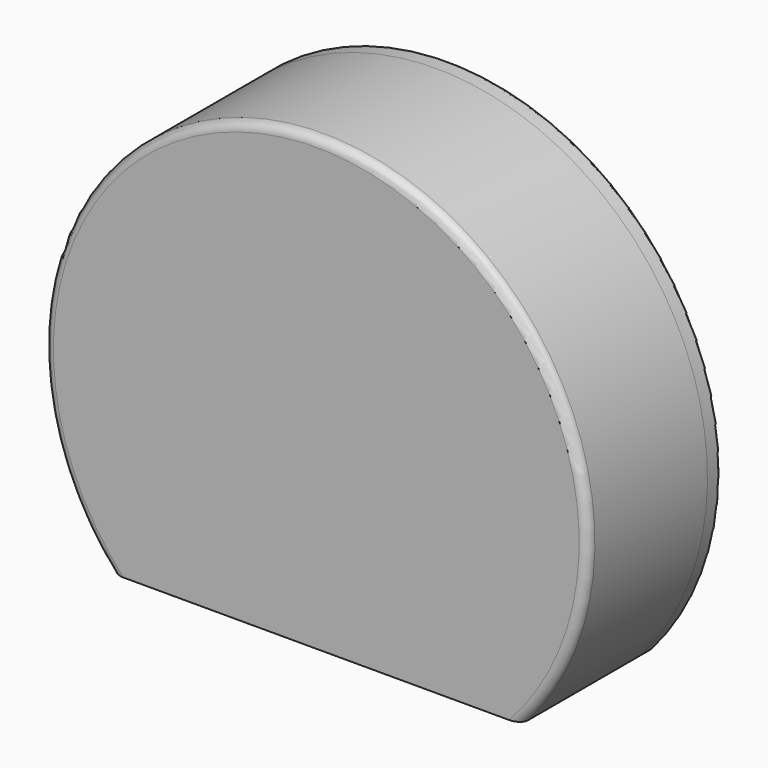
from build123d import *

# Parameters (mm, degrees)
F0_R           = 30.9
F1_DEPTH       = 17
F2_W           = 50.5
F2_H           = 23.8
F3_DEPTH       = 15
F4_W           = 26
F4_H           = 11.5
F5_DEPTH       = 11
F7_DEPTH       = 6
F8_W           = 62.8076445868
F8_H           = 21.1615084887
F9_DEPTH       = 17.001
F11_DEPTH      = 2
F13_DEPTH      = 1.8
F13_DEPTH_BACK = 1.8
F15_DEPTH      = 1.8
F16_R          = 1
F17_R          = 1.3179542429
F17_R_2        = 1.25
F18_DEPTH      = 5
F19_W          = 48
F19_H          = 19
F20_DEPTH      = 0.5
F21_R          = 0.3


with BuildPart() as f1:
    # F0 (on Front) → F1 (new body)
    with BuildSketch(Plane.XZ):
        Circle(F0_R)
    extrude(amount=F1_DEPTH)

    # F2 (on Front) → F3 (cut)
    with BuildSketch(Plane.XZ):
        Rectangle(F2_W, F2_H)
    extrude(amount=F3_DEPTH, mode=Mode.SUBTRACT)

    # F4 (on face) → F5 (cut)
    with BuildSketch(Plane(origin=(0, 0, 0), x_dir=(-1, 0, 0), z_dir=(0, 1, 0))):
        with Locations((0, 16.6985985124)):
            Rectangle(F4_W, F4_H)
    extrude(amount=-F5_DEPTH, mode=Mode.SUBTRACT)

    # F6 (on face) → F7 (cut)
    with BuildSketch(Plane(origin=(0, 0, 0), x_dir=(-1, 0, 0), z_dir=(0, 1, 0))):
        Polygon((-13, 17.1742992562), (-25.25, 11.9), (-13, 11.9), align=None)
    extrude(amount=-F7_DEPTH, mode=Mode.SUBTRACT)

    # F8 (on face) → F9 (cut, through all)
    with BuildSketch(Plane(origin=(0, 0, 0), x_dir=(-1, 0, 0), z_dir=(0, 1, 0))):
        with Locations((0, -30.9)):
            Rectangle(F8_W, F8_H)
    extrude(amount=-F9_DEPTH, mode=Mode.SUBTRACT)

    # F10 (on face) → F11 (cut)
    with BuildSketch(Plane(origin=(0, 0, 0), x_dir=(-1, 0, 0), z_dir=(0, 1, 0))):
        with BuildLine():
            Line((-22.8205333731, -19.3192457557), (22.8205333731, -19.3192457557))
            ThreePointArc((22.8205333731, -19.3192457557), (0, 29.9), (-22.8205333731, -19.3192457557))
        make_face()
    extrude(amount=-F11_DEPTH, mode=Mode.SUBTRACT)

    # F16
    f16_edges = [f1.edges().sort_by_distance(p)[0] for p in [
        (0, -17, 30.9),
    ]]
    fillet(f16_edges, radius=F16_R)

    # F17 (on face) → F18 (cut)
    with BuildSketch(Plane(origin=(0, -2, 0), x_dir=(-1, 0, 0), z_dir=(0, 1, 0))):
        with Locations((-16.4878424257, -15.4789434746)):
            Circle(F17_R)
        with Locations((0, 25.803886354)):
            Circle(F17_R_2)
        with Locations((16.4878424257, -15.4789434746)):
            Circle(F17_R)
    extrude(amount=-F18_DEPTH, mode=Mode.SUBTRACT)


with BuildPart() as f13:
    # F12 (on Front) → F13 (new body, two sides)
    with BuildSketch(Plane.XZ) as f13_sk:
        with BuildLine():
            Line((-22.6899430128, -18.9658286482), (22.6899430128, -18.9658286482))
            ThreePointArc((22.6899430128, -18.9658286482), (0, 29.5725577223), (-22.6899430128, -18.9658286482))
        make_face()
    extrude(amount=F13_DEPTH)
    extrude(f13_sk.sketch, amount=-F13_DEPTH_BACK)

    # F14 (on face) → F15 (join)
    with BuildSketch(Plane(origin=(0, 1.8, 0), x_dir=(-1, 0, 0), z_dir=(0, 1, 0))):
        with BuildLine():
            ThreePointArc((23.2795672623, -20.3192457557), (0, 30.9), (-23.2795672623, -20.3192457557))
            Line((-23.2795672623, -20.3192457557), (23.2795672623, -20.3192457557))
        make_face()
    extrude(amount=-F15_DEPTH)

    # F19 (on face) → F20 (cut)
    with BuildSketch(Plane.XZ.offset(1.8)):
        Rectangle(F19_W, F19_H)
    extrude(amount=-F20_DEPTH, mode=Mode.SUBTRACT)

    # F21
    f21_edges = [f13.edges().sort_by_distance(p)[0] for p in [
        (0, 1.8, 30.9),
        (0, 1.8, -20.319246),
    ]]
    fillet(f21_edges, radius=F21_R)


solid = Compound([f1.part, f13.part])
